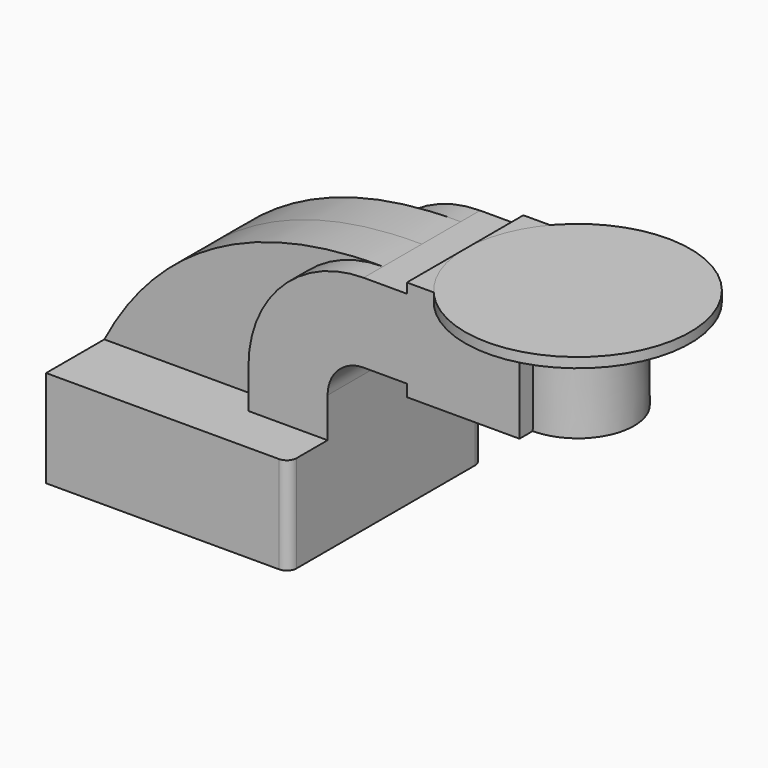
from build123d import *

# Parameters (mm, degrees)
F1_DEPTH = 63.5
F2_DEPTH = 38.1
F3_DEPTH = 38.1
F4_DEPTH = 25.4
F6_R     = 5.08


with BuildPart() as f1:
    # F0 (on Front) → F1 (new body, symmetric)
    with BuildSketch(Plane.XZ):
        Polygon((-63.5, -25.399997), (63.5, -25.399997), (63.5, 25.399997), (22.097999, 25.399997), (-63.5, 25.399997), align=None)
    extrude(amount=F1_DEPTH, both=True)

    # F0 (on Front) → F2 (join, symmetric)
    with BuildSketch(Plane.XZ):
        with BuildLine():
            Line((22.097999, 25.399997), (63.5, 25.399997))
            Line((63.5, 25.399997), (63.5, 46.150388))
            ThreePointArc((63.5, 46.150388), (69.018159, 59.472403), (82.340174, 64.990562))
            Line((82.340174, 64.990562), (104.987996, 64.990562))
            Line((104.987996, 64.990562), (104.987996, 106.392563))
            Line((104.987996, 106.392563), (82.340174, 106.392563))
            ThreePointArc((82.340174, 106.392563), (39.742524, 88.748038), (22.097999, 46.150388))
            Line((22.097999, 46.150388), (22.097999, 25.399997))
        make_face()
    extrude(amount=F2_DEPTH, both=True)

    # F0 (on Front) → F3 (join, symmetric)
    with BuildSketch(Plane.XZ):
        Polygon((104.987996, 111.5817), (104.987996, 106.392563), (134.619987, 106.392563), (134.452, 58.749718), (163.916005, 58.749718), (163.916005, 111.5817), align=None)
        Polygon((104.987996, 111.5817), (104.987996, 106.392563), (134.619987, 106.392563), (134.452, 58.749718), (163.916005, 58.749718), (163.916005, 111.5817), align=None)
        Polygon((134.619987, 106.392563), (104.987996, 106.392563), (104.987996, 64.990562), (104.987996, 58.749718), (134.452, 58.749718), align=None)
        Polygon((134.619987, 106.392563), (104.987996, 106.392563), (104.987996, 64.990562), (104.987996, 58.749718), (134.452, 58.749718), align=None)
    extrude(amount=F3_DEPTH, both=True)

    # F0 (on Front) → F4 (join, symmetric)
    with BuildSketch(Plane.XZ):
        with BuildLine():
            add(Edge.make_bspline(
                [(-63.5, 25.399997), (-36.813602, 76.749705), (11.578402, 107.047305), (82.340174, 106.392563)],
                knots=[0, 0, 0, 0, 166.820718, 166.820718, 166.820718, 166.820718], degree=3))
            Line((-63.5, 25.399997), (22.097999, 25.399997))
            Line((22.097999, 25.399997), (22.097999, 46.150388))
            ThreePointArc((22.097999, 46.150388), (39.742524, 88.748038), (82.340174, 106.392563))
        make_face()
    extrude(amount=F4_DEPTH, both=True)

    # F6
    f6_edges = [f1.edges().sort_by_distance(p)[0] for p in [
        (63.5, -63.5, 0),
        (63.5, 63.5, 0),
    ]]
    fillet(f6_edges, radius=F6_R)


with BuildPart() as f5:
    # F0 (on Front) → F5 (revolve)
    with BuildSketch(Plane.XZ):
        Polygon((104.987996, 111.5817), (104.987996, 106.392563), (134.619987, 106.392563), (134.452, 58.749718), (163.916005, 58.749718), (163.916005, 111.5817), align=None)
    revolve(axis=Axis((163.916005, 0, 85.165709), (0, 0, 1)))


solid = Compound([f1.part, f5.part])
